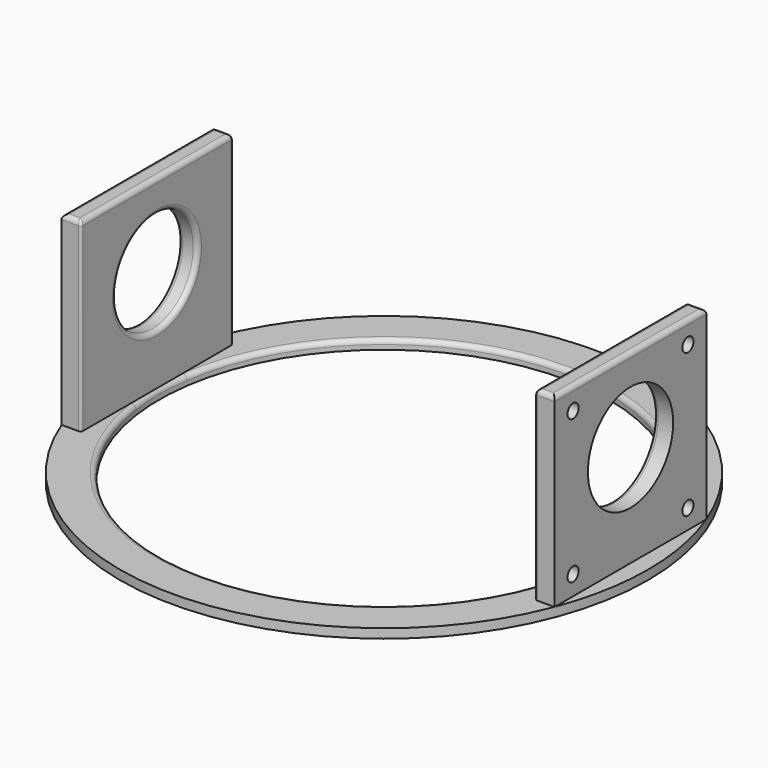
from build123d import *

# Parameters (mm, degrees)
SKETCH_R        = 57
SKETCH_R_2      = 48.5
PAD_DEPTH       = 2
SKETCH001_W     = 4.21681
SKETCH001_H     = 41
SKETCH001_W_2   = 4.21
PAD001_DEPTH    = 40
SKETCH002_R     = 1.5
SKETCH002_R_2   = 11.5
POCKET_DEPTH    = 5
SKETCH003_R     = 11
POCKET001_DEPTH = 5
FILLET_R        = 1
FILLET001_R     = 1
FILLET002_R     = 0.5
FILLET003_R     = 0.5
FILLET004_R     = 0.5
FILLET005_R     = 1
FILLET006_R     = 1
FILLET007_R     = 1
FILLET008_R     = 1


with BuildPart() as part:
    # Sketch → Pad (new body)
    with BuildSketch(Plane.XY):
        Circle(SKETCH_R)
        Circle(SKETCH_R_2, mode=Mode.SUBTRACT)
    extrude(amount=PAD_DEPTH)

    # Sketch001 → Pad001 (new body)
    with BuildSketch(Plane.XY.offset(2)):
        with Locations((-51.108405, 0)):
            Rectangle(SKETCH001_W, SKETCH001_H)
        with Locations((51.105, 0)):
            Rectangle(SKETCH001_W_2, SKETCH001_H)
    extrude(amount=PAD001_DEPTH)

    # Sketch002 → Pocket (cut)
    with BuildSketch(Plane.YZ.offset(53.21)):
        with Locations((-15.5, 6.218866)):
            Circle(SKETCH002_R)
        with Locations((-15.5, 37.218866)):
            Circle(SKETCH002_R)
        with Locations((15.5, 37.218866)):
            Circle(SKETCH002_R)
        with Locations((15.5, 6.218866)):
            Circle(SKETCH002_R)
        with Locations((0, 24)):
            Circle(SKETCH002_R_2)
    extrude(amount=-POCKET_DEPTH, mode=Mode.SUBTRACT)

    # Sketch003 → Pocket001 (cut)
    with BuildSketch(Plane(origin=(-53.21681, 0, 0), x_dir=(0, -1, 0), z_dir=(-1, 0, 0))):
        with Locations((0, 24)):
            Circle(SKETCH003_R)
    extrude(amount=-POCKET001_DEPTH, mode=Mode.SUBTRACT)

    # Fillet
    fillet_edges = [part.edges().sort_by_distance(p)[0] for p in [
        (51.105, 20.5, 42),
        (53.21, 0, 42),
        (51.105, -20.5, 42),
        (49, 0, 42),
    ]]
    fillet(fillet_edges, radius=FILLET_R)

    # Fillet001
    fillet001_edges = [part.edges().sort_by_distance(p)[0] for p in [
        (-51.108405, 20.5, 42),
        (-49, 0, 42),
        (-51.108405, -20.5, 42),
        (-53.21681, 0, 42),
    ]]
    fillet(fillet001_edges, radius=FILLET001_R)

    # Fillet002
    fillet002_edges = [part.edges().sort_by_distance(p)[0] for p in [
        (-49, 20.5, 21.5),
    ]]
    fillet(fillet002_edges, radius=FILLET002_R)

    # Fillet003
    fillet003_edges = [part.edges().sort_by_distance(p)[0] for p in [
        (49, 20.5, 21.5),
    ]]
    fillet(fillet003_edges, radius=FILLET003_R)

    # Fillet004
    fillet004_edges = [part.edges().sort_by_distance(p)[0] for p in [
        (-49, -20.5, 21.5),
        (49, -20.5, 21.5),
    ]]
    fillet(fillet004_edges, radius=FILLET004_R)

    # Fillet005
    fillet005_edges = [part.edges().sort_by_distance(p)[0] for p in [
        (-49, 11, 24),
    ]]
    fillet(fillet005_edges, radius=FILLET005_R)

    # Fillet006
    fillet006_edges = [part.edges().sort_by_distance(p)[0] for p in [
        (49, -11.5, 24),
    ]]
    fillet(fillet006_edges, radius=FILLET006_R)

    # Fillet007
    fillet007_edges = [part.edges().sort_by_distance(p)[0] for p in [
        (-53.21681, 11, 24),
    ]]
    fillet(fillet007_edges, radius=FILLET007_R)

    # Fillet008
    fillet008_edges = [part.edges().sort_by_distance(p)[0] for p in [
        (-48.5, 0, 2),
    ]]
    fillet(fillet008_edges, radius=FILLET008_R)


solid = part.part
